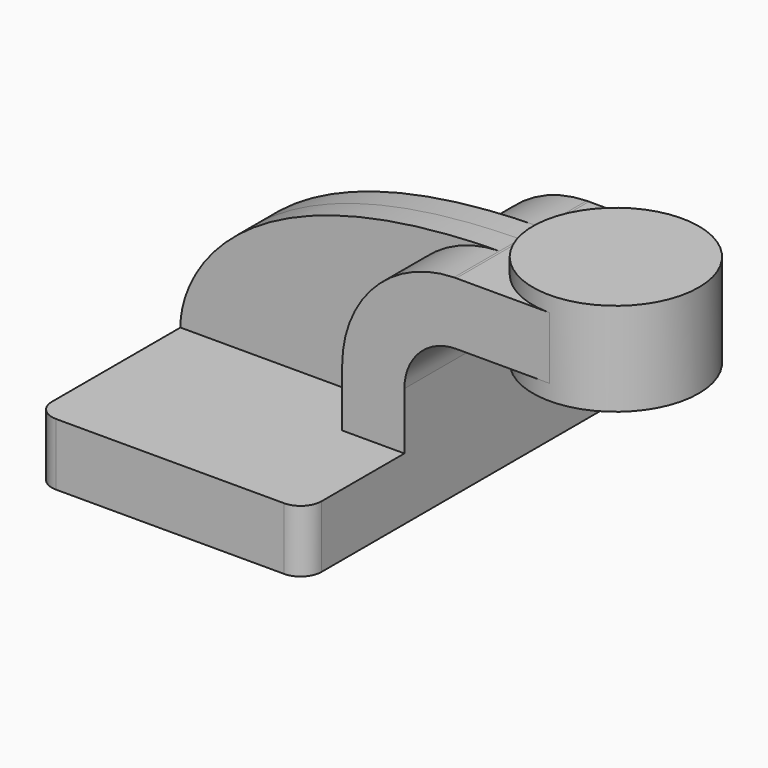
from build123d import *

# Parameters (mm, degrees)
F1_DEPTH = 63.5
F0_W     = 25.4
F0_H     = 19.05
F2_DEPTH = 25.4
F3_DEPTH = 7.9375
F5_R     = 6.35


with BuildPart() as f1:
    # F0 (on Front) → F1 (new body, symmetric)
    with BuildSketch(Plane.XZ):
        Polygon((-41.275, -9.525), (41.275, -9.525), (41.275, 9.525), (22.225, 9.525), (-41.275, 9.525), align=None)
    extrude(amount=F1_DEPTH, both=True)

    # F0 (on Front) → F2 (join, symmetric)
    with BuildSketch(Plane.XZ):
        with BuildLine():
            Line((22.225, 9.525), (41.275, 9.525))
            Line((41.275, 9.525), (41.275, 27.0002))
            ThreePointArc((41.275, 27.0002), (45.9246798487, 38.2255201513), (57.15, 42.8752))
            Line((57.15, 42.8752), (60.325, 42.8752))
            Line((60.325, 42.8752), (60.325, 61.9252))
            Line((60.325, 61.9252), (57.15, 61.9252))
            add(Edge.make_bspline(
                [(56.4471286187, 61.9181265825), (56.6808841517, 61.9207828188), (56.9151742333, 61.9231410888), (57.15, 61.9252)],
                knots=[111.1854166605, 111.1854166605, 111.1854166605, 111.1854166605, 111.5045361635, 111.5045361635, 111.5045361635, 111.5045361635], degree=3))
            ThreePointArc((56.4471286187, 61.9181265825), (32.2070309707, 51.4461387425), (22.225, 27.0002))
            Line((22.225, 27.0002), (22.225, 9.525))
        make_face()
        with Locations((73.025, 52.4002)):
            Rectangle(F0_W, F0_H)
        with Locations((73.025, 52.4002)):
            Rectangle(F0_W, F0_H)
    extrude(amount=F2_DEPTH, both=True)

    # F0 (on Front) → F3 (join, symmetric)
    with BuildSketch(Plane.XZ):
        with BuildLine():
            add(Edge.make_bspline(
                [(-41.275, 9.525), (-41.550087132, 23.8965587846), (-24.9963622673, 60.992659049), (56.4471286187, 61.9181265825)],
                knots=[0, 0, 0, 0, 111.1854166605, 111.1854166605, 111.1854166605, 111.1854166605], degree=3))
            Line((-41.275, 9.525), (22.225, 9.525))
            Line((22.225, 9.525), (22.225, 27.0002))
            ThreePointArc((22.225, 27.0002), (32.2070309707, 51.4461387425), (56.4471286187, 61.9181265825))
        make_face()
    extrude(amount=F3_DEPTH, both=True)

    # F5
    f5_edges = [f1.edges().sort_by_distance(p)[0] for p in [
        (41.275, -63.5, 0),
        (-41.275, -63.5, 0),
        (-41.275, 63.5, 0),
        (41.275, 63.5, 0),
    ]]
    fillet(f5_edges, radius=F5_R)


with BuildPart() as f4:
    # F0 (on Front) → F4 (revolve)
    with BuildSketch(Plane.XZ):
        Polygon((85.725, 61.9252), (85.725, 42.8752), (85.725, 38.1), (111.125, 38.1), (111.125, 66.675), (85.725, 66.675), align=None)
    revolve(axis=Axis((85.725, 0, 52.3875), (0, 0, -1)))


solid = Compound([f1.part, f4.part])
